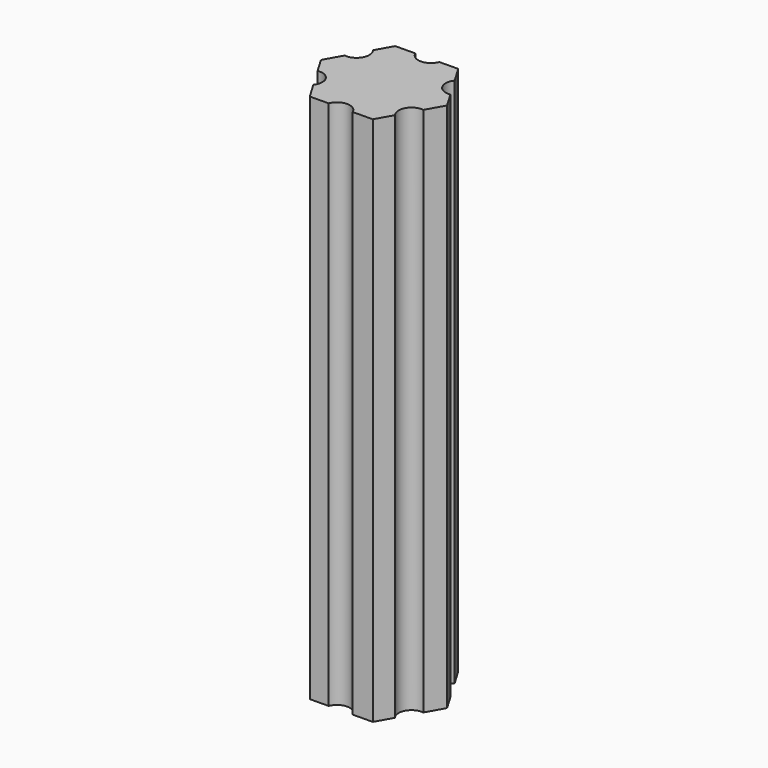
from build123d import *

# Parameters (mm, degrees)
F1_DEPTH = 62.23
F3_DEPTH = 62.23
F4_DEPTH = 10.795
F5_DEPTH = 10.795


with BuildPart() as f1:
    # F0 (on Top) → F1 (new body)
    with BuildSketch(Plane.XY):
        Polygon((-7.3319007784, -0.081020421), (-3.5957846464, -6.3901225426), (3.736116132, -6.3091021217), (7.3319007784, 0.081020421), (3.5957846464, 6.3901225426), (-3.736116132, 6.3091021217), align=None)
    extrude(amount=F1_DEPTH)

    # F2 (on face) → F3 (cut, through all)
    with BuildSketch(Plane(origin=(0, 0, 0), x_dir=(1, 0, 0), z_dir=(0, 0, -1))):
        with BuildLine():
            ThreePointArc((-6.2100646879, 1.9754418492), (-4.6811988128, 2.6884458628), (-4.7909795689, 4.3718215705))
            Line((-4.7909795689, 4.3718215705), (-6.2100646879, 1.9754418492))
        make_face()
        with BuildLine():
            Line((1.3906187564, 6.3350208009), (-1.3942495189, 6.3657947035))
            ThreePointArc((-1.3942495189, 6.3657947035), (-0.0123369925, 5.3982600234), (1.3906187564, 6.3350208009))
        make_face()
        with BuildLine():
            Line((6.1815983253, 1.9631992305), (4.815815169, 4.3903528543))
            ThreePointArc((4.815815169, 4.3903528543), (4.6688618202, 2.7098141606), (6.1815983253, 1.9631992305))
        make_face()
        with BuildLine():
            Line((4.7909795689, -4.3718215705), (6.2100646879, -1.9754418492))
            ThreePointArc((6.2100646879, -1.9754418492), (4.6811988128, -2.6884458628), (4.7909795689, -4.3718215705))
        make_face()
        with BuildLine():
            ThreePointArc((1.3942495189, -6.3657947035), (0.0123369925, -5.3982600234), (-1.3906187564, -6.3350208009))
            Line((-1.3906187564, -6.3350208009), (1.3942495189, -6.3657947035))
        make_face()
        with BuildLine():
            ThreePointArc((-4.815815169, -4.3903528543), (-4.6688618202, -2.7098141606), (-6.1815983253, -1.9631992305))
            Line((-6.1815983253, -1.9631992305), (-4.815815169, -4.3903528543))
        make_face()
    extrude(amount=-F3_DEPTH, mode=Mode.SUBTRACT)

    # F4 (add): a face of the model
    f4_faces = [f1.faces().sort_by_distance(p)[0] for p in [
        (0, 0, 62.23),
    ]]
    extrude(f4_faces, amount=F4_DEPTH)

    # F5 (cut): a face of the model
    f5_faces = [f1.faces().sort_by_distance(p)[0] for p in [
        (0, 0, 73.025),
    ]]
    extrude(f5_faces, amount=-F5_DEPTH, mode=Mode.SUBTRACT)


solid = f1.part
